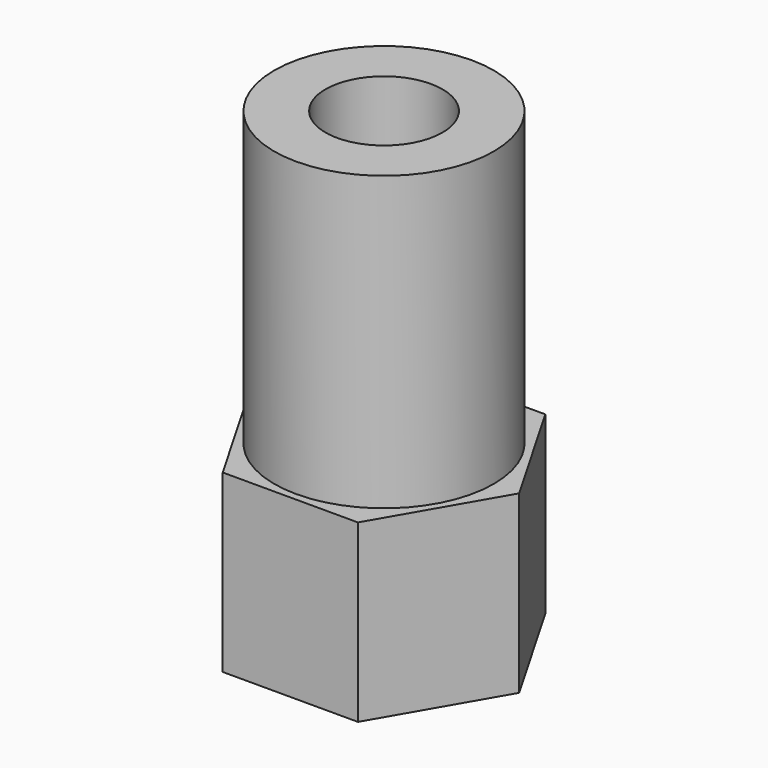
from build123d import *

# Parameters (mm, degrees)
F1_DEPTH = 6
F2_R     = 3.75
F3_DEPTH = 10
F4_R     = 2
F5_DEPTH = 25


with BuildPart() as f1:
    # F0 (on Top) → F1 (new body)
    with BuildSketch(Plane.XY):
        Polygon((-17.257317, 9.717025), (-21.87612, 9.717025), (-24.185521, 5.717025), (-21.87612, 1.717025), (-17.257317, 1.717025), (-14.947916, 5.717025), align=None)
    extrude(amount=F1_DEPTH)

    # F2 (on face) → F3 (join)
    with BuildSketch(Plane.XY.offset(6)):
        with Locations((-19.566718, 5.717025)):
            Circle(F2_R)
    extrude(amount=F3_DEPTH)

    # F4 (on face) → F5 (cut)
    with BuildSketch(Plane(origin=(0, 0, 0), x_dir=(1, 0, 0), z_dir=(0, 0, -1))):
        with Locations((-19.566718, -5.717025)):
            Circle(F4_R)
    extrude(amount=-F5_DEPTH, mode=Mode.SUBTRACT)


solid = f1.part
